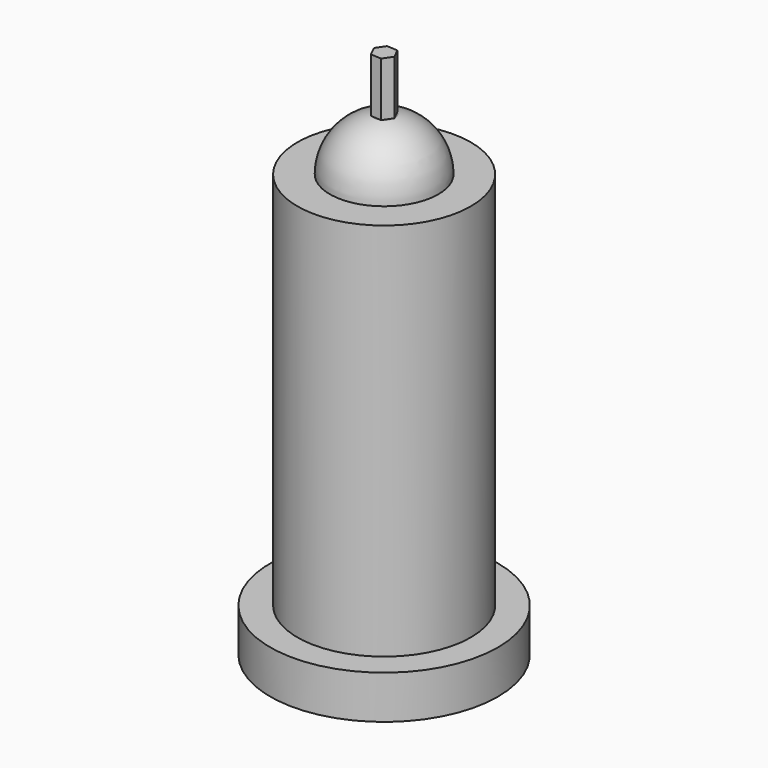
from build123d import *

# Parameters (mm, degrees)
F0_R     = 10.5
F1_DEPTH = 4
F2_R     = 8
F3_DEPTH = 39
F7_DEPTH = 5


with BuildPart() as f1:
    # F0 (on Top) → F1 (new body)
    with BuildSketch(Plane.XY):
        Circle(F0_R)
    extrude(amount=F1_DEPTH)

    # F2 (on Top) → F3 (join)
    with BuildSketch(Plane.XY):
        Circle(F2_R)
    extrude(amount=F3_DEPTH)

    # F4 (on Right) → F5 (revolve)
    with BuildSketch(Plane.YZ):
        with BuildLine():
            Line((1, 43.898979), (0, 43.898979))
            Line((0, 43.898979), (0, 39))
            Line((0, 39), (5, 39))
            ThreePointArc((5, 39), (3.872983, 42.162278), (1, 43.898979))
        make_face()
    revolve(axis=Axis((0, 0, 41.5), (0, 0, -1)))

    # F6 (on face) → F7 (join)
    with BuildSketch(Plane.XY.offset(43.898979)):
        Polygon((0.441064, -0.897476), (0.997769, -0.066766), (0.556705, 0.83071), (-0.441064, 0.897476), (-0.997769, 0.066766), (-0.556705, -0.83071), align=None)
    extrude(amount=F7_DEPTH)


solid = f1.part
